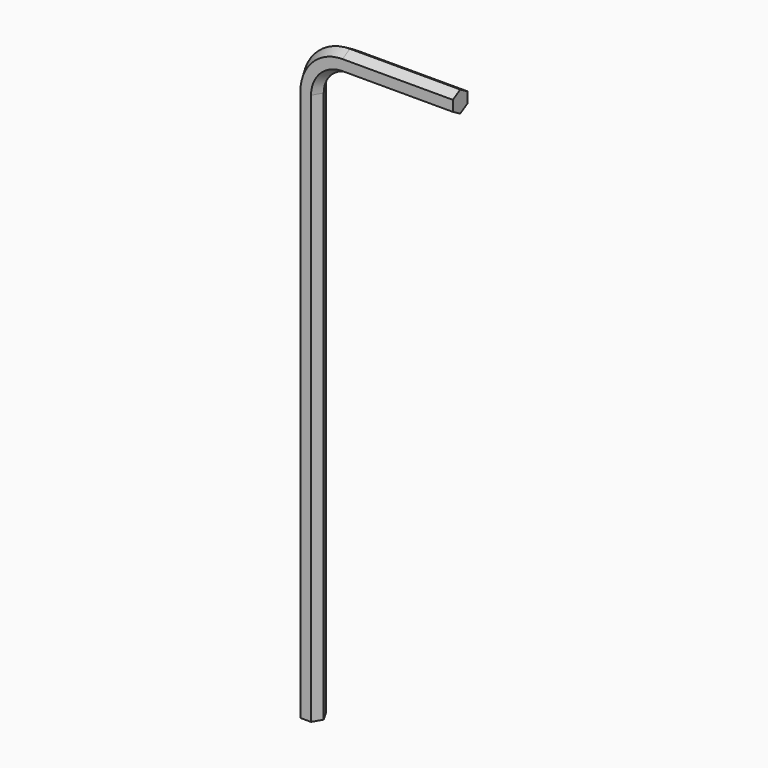
from build123d import *


with BuildPart() as f2:
    # F2: sweep along a path in F1
    with BuildLine(Plane.XZ) as f2_path:
        Line((0, 0), (0, 95.25))
        ThreePointArc((0, 95.25), (1.859872, 99.740128), (6.35, 101.6))
        Line((6.35, 101.6), (25.4, 101.6))
    # F0 (on Top) → F2 (sweep)
    with BuildSketch(Plane.XY):
        Polygon((0.916544, 1.5875), (-0.916544, 1.5875), (-1.833087, 0), (-0.916544, -1.5875), (0.916544, -1.5875), (1.833087, 0), align=None)
    sweep(path=f2_path.line)


solid = f2.part
